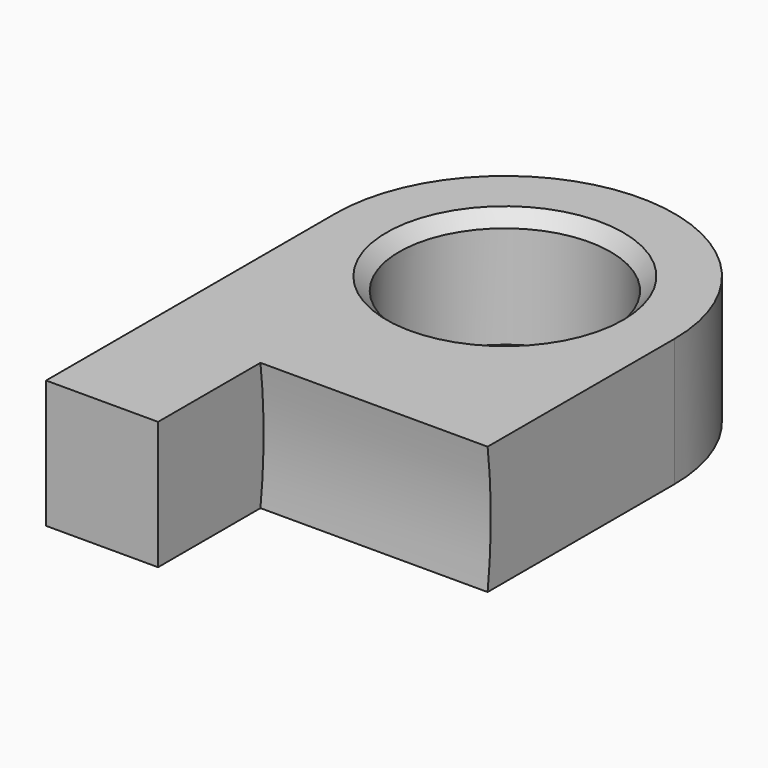
from build123d import *

# Parameters (mm, degrees)
F0_R     = 3.3
F1_DEPTH = 4
F2_W     = 3.5
F2_H     = 4
F3_DEPTH = 4
F4_SIZE  = 0.4
F5_R     = 16.2
F6_DEPTH = 7.1


with BuildPart() as f1:
    # F0 (on Top) → F1 (new body)
    with BuildSketch(Plane.XY):
        with BuildLine():
            ThreePointArc((-5.3, 0), (0, -5.3), (5.3, 0))
            ThreePointArc((5.3, 0), (0, 5.3), (-5.3, 0))
        make_face()
        Circle(F0_R, mode=Mode.SUBTRACT)
        with BuildLine():
            Line((5.3, -7.3), (5.3, 0))
            ThreePointArc((5.3, 0), (0, -5.3), (-5.3, 0))
            Line((-5.3, 0), (-5.3, -7.3))
            Line((-5.3, -7.3), (5.3, -7.3))
        make_face()
    extrude(amount=F1_DEPTH)

    # F2 (on face) → F3 (join)
    with BuildSketch(Plane.XZ.offset(7.3)):
        with Locations((-3.55, 2)):
            Rectangle(F2_W, F2_H)
    extrude(amount=F3_DEPTH)

    # F4
    f4_edges = [f1.edges().sort_by_distance(p)[0] for p in [
        (-3.3, 0, 4),
        (-3.3, 0, 0),
    ]]
    chamfer(f4_edges, length=F4_SIZE)

    # F5 (on face) → F6 (cut, through all)
    with BuildSketch(Plane.YZ.offset(5.3)):
        with Locations((-23.376069, 2)):
            Circle(F5_R)
    extrude(amount=-F6_DEPTH, mode=Mode.SUBTRACT)


solid = f1.part
